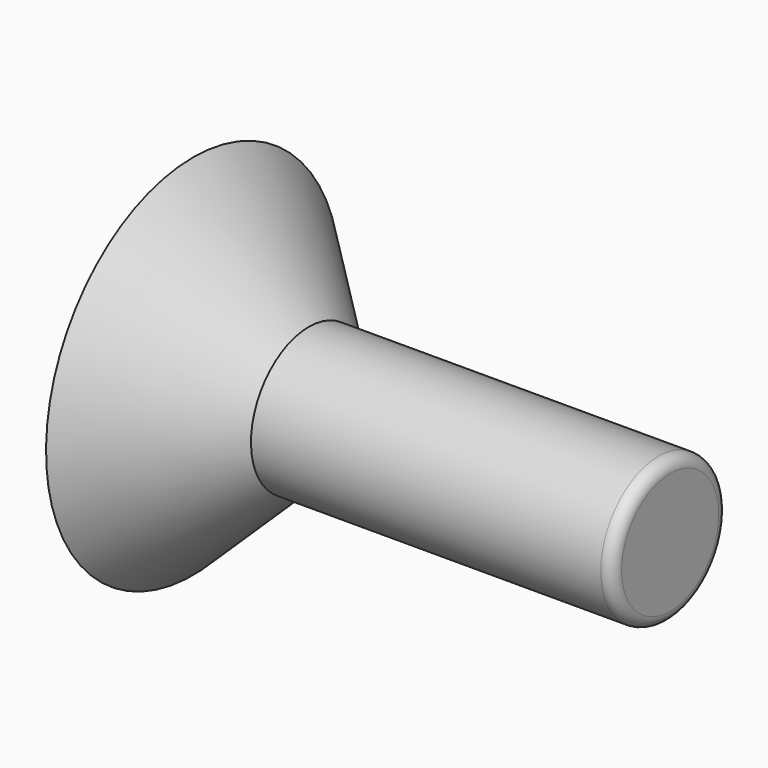
from build123d import *

# Parameters (mm, degrees)
F3_DEPTH = 5
F4_R     = 0.8


with BuildPart() as f1:
    # F0 (on Front) → F1 (revolve)
    with BuildSketch(Plane.XZ):
        Polygon((0, 12.72551), (0, 0), (33, 0), (33, 5), (8, 5), align=None)
    revolve(axis=Axis((16.5, 0, 0), (-1, 0, 0)))

    # F2 (on face) → F3 (cut)
    with BuildSketch(Plane(origin=(0, 0, 0), x_dir=(0, -1, 0), z_dir=(-1, 0, 0))):
        Polygon((3.996034, 4.167138), (-1.610831, 5.544236), (-5.606865, 1.377098), (-3.996034, -4.167138), (1.610831, -5.544236), (5.606865, -1.377098), align=None)
    extrude(amount=-F3_DEPTH, mode=Mode.SUBTRACT)

    # F4
    f4_edges = [f1.edges().sort_by_distance(p)[0] for p in [
        (33, 0, -5),
    ]]
    fillet(f4_edges, radius=F4_R)


solid = f1.part
